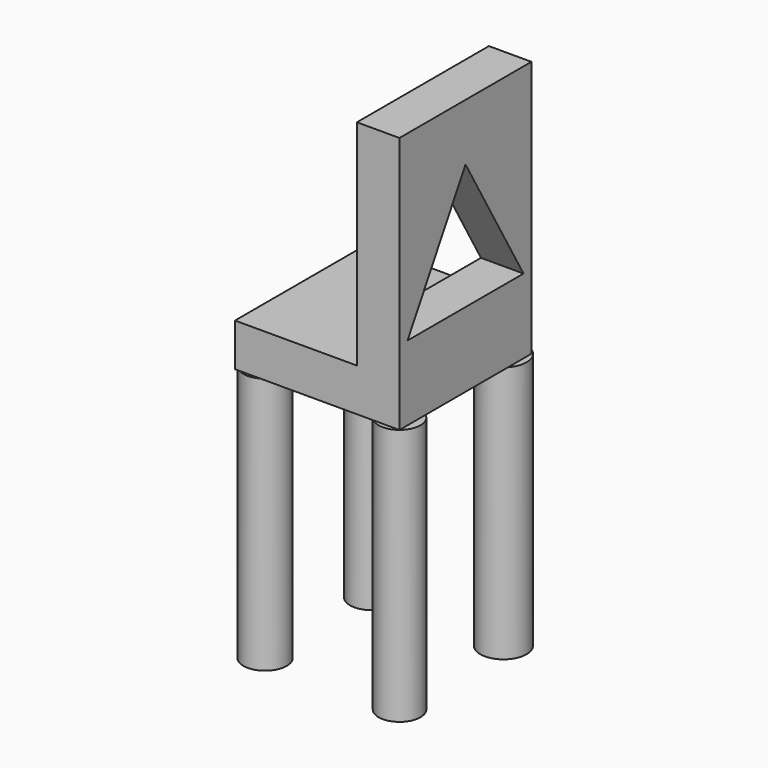
from build123d import *

# Parameters (mm, degrees)
F0_R     = 12.789744
F0_R_2   = 13.718109
F0_R_3   = 12.807418
F0_R_4   = 12.401863
F1_DEPTH = 152.4
F2_W     = 97.507692
F2_H     = 97.806504
F3_DEPTH = 25.4
F4_W     = 25.225804
F4_H     = 97.806504
F5_DEPTH = 127
F7_DEPTH = 76.2


with BuildPart() as f1:
    # F0 (on Top) → F1 (new body)
    with BuildSketch(Plane.XY):
        with Locations((-38.35066, 40.456183)):
            Circle(F0_R)
        with Locations((39.553817, 40.756974)):
            Circle(F0_R_2)
        with Locations((-38.952239, -37.749078)):
            Circle(F0_R_3)
        with Locations((41.960135, -39.253026)):
            Circle(F0_R_4)
    extrude(amount=F1_DEPTH)


with BuildPart() as f3:
    # F2 (on face) → F3 (new body)
    with BuildSketch(Plane.XY.offset(152.4)):
        with Locations((0.930283, -0.052667)):
            Rectangle(F2_W, F2_H)
    extrude(amount=F3_DEPTH)

    # F4 (on face) → F5 (join)
    with BuildSketch(Plane.XY.offset(177.8)):
        with Locations((37.071227, -0.052667)):
            Rectangle(F4_W, F4_H)
    extrude(amount=F5_DEPTH)

    # F6 (on face) → F7 (cut)
    with BuildSketch(Plane(origin=(24.458325, 0, 0), x_dir=(0, -1, 0), z_dir=(-1, 0, 0))):
        Polygon((-42.981061, 196.641117), (42.981061, 196.641117), (0, 271.086499), align=None)
    extrude(amount=-F7_DEPTH, mode=Mode.SUBTRACT)


solid = Compound([f1.part, f3.part])
